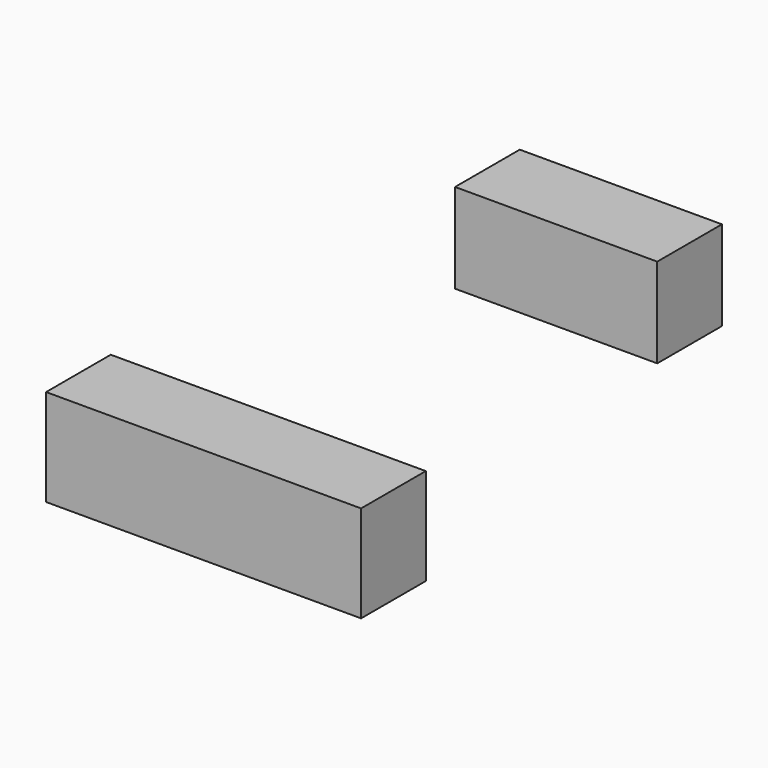
from build123d import *

# Parameters (mm, degrees)
F0_W     = 98.969244
F0_H     = 30.417156
F0_W_2   = 63.517764
F0_H_2   = 28.14722
F1_DEPTH = 25.4


with BuildPart() as f1:
    # F0 (on Front) → F1 (new body)
    with BuildSketch(Plane.XZ):
        Rectangle(F0_W, F0_H)
        with Locations((110.7729, 99.650219)):
            Rectangle(F0_W_2, F0_H_2)
    extrude(amount=F1_DEPTH)


solid = f1.part
